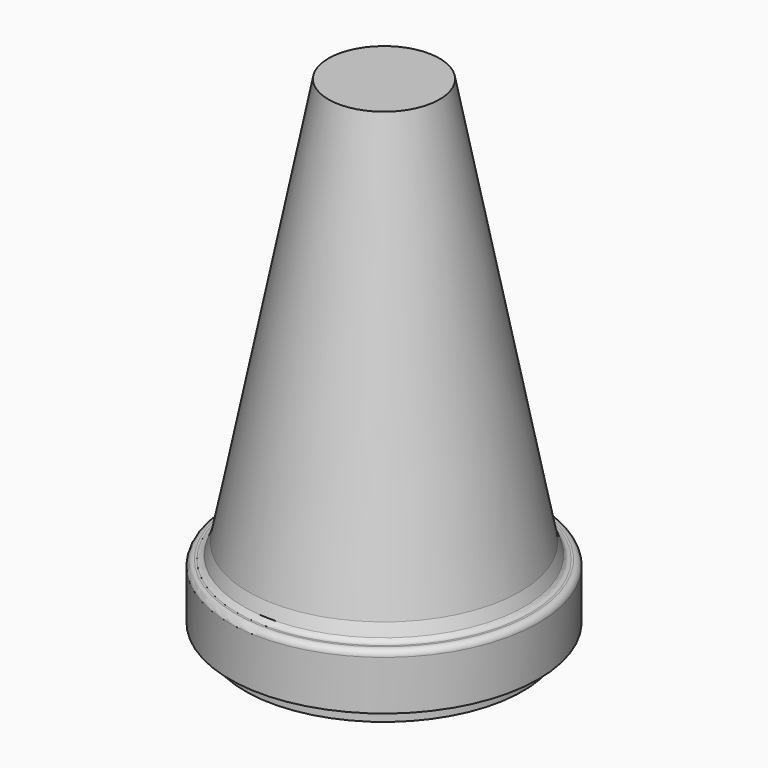
from build123d import *

# Parameters (mm, degrees)
F2_R = 1.27
F3_R = 1.27


with BuildPart() as f1:
    # F0 (on Front) → F1 (revolve)
    with BuildSketch(Plane.XZ):
        Polygon((-28.575, 0), (0, 0), (0, 101.6), (-11.43, 101.6), (-27.94, 17.78), (-29.21, 14.605), (-31.75, 14.605), (-31.75, 3.175), (-28.575, 3.175), align=None)
    revolve(axis=Axis((0, 0, 50.8), (0, 0, -1)))

    # F2
    f2_edges = [f1.edges().sort_by_distance(p)[0] for p in [
        (29.21, 0, 14.605),
    ]]
    fillet(f2_edges, radius=F2_R)

    # F3
    f3_edges = [f1.edges().sort_by_distance(p)[0] for p in [
        (31.75, 0, 14.605),
    ]]
    fillet(f3_edges, radius=F3_R)


solid = f1.part
